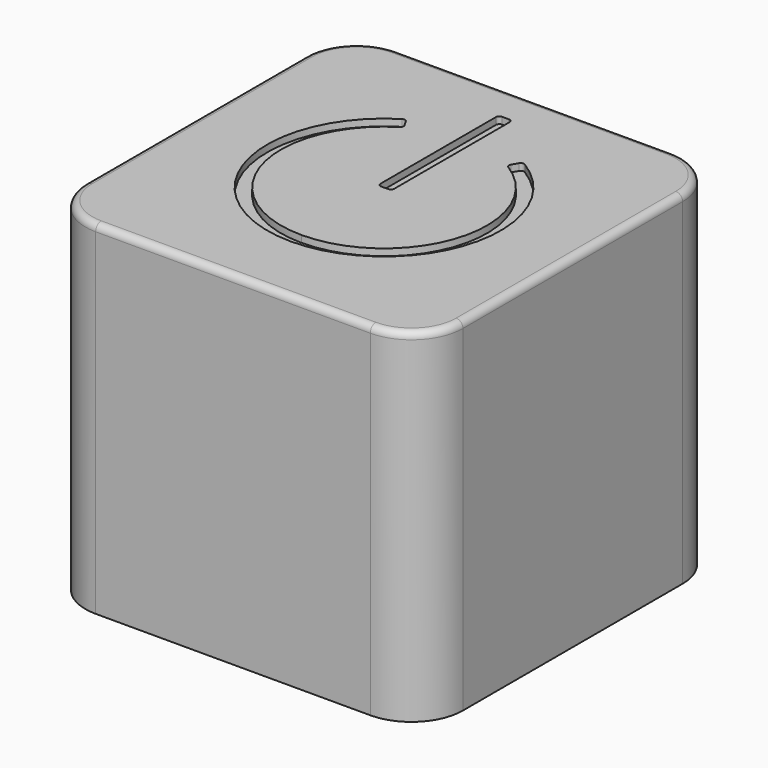
from build123d import *

# Parameters (mm, degrees)
F1_DEPTH = 5
F3_DEPTH = 0.1
F4_R     = 0.1


with BuildPart() as f1:
    # F0 (on Top) → F1 (new body)
    with BuildSketch(Plane.XY):
        with BuildLine():
            Line((20.678803, 58.487322), (16.678803, 58.487322))
            ThreePointArc((16.678803, 58.487322), (16.148473, 58.267652), (15.928803, 57.737322))
            Line((15.928803, 57.737322), (15.928803, 53.737322))
            ThreePointArc((15.928803, 53.737322), (16.148473, 53.206992), (16.678803, 52.987322))
            Line((16.678803, 52.987322), (20.678803, 52.987322))
            ThreePointArc((20.678803, 52.987322), (21.209133, 53.206992), (21.428803, 53.737322))
            Line((21.428803, 53.737322), (21.428803, 57.737322))
            ThreePointArc((21.428803, 57.737322), (21.209133, 58.267652), (20.678803, 58.487322))
        make_face()
    extrude(amount=F1_DEPTH)

    # F2 (on face) → F3 (cut)
    with BuildSketch(Plane.XY.offset(5)):
        with BuildLine():
            ThreePointArc((19.4534, 57.078963), (19.448202, 57.041803), (19.470317, 57.011491))
            ThreePointArc((19.470317, 57.011491), (20.121241, 55.325772), (18.678803, 54.237322))
            ThreePointArc((18.678803, 54.237322), (17.236365, 55.325772), (17.887289, 57.011491))
            ThreePointArc((17.887289, 57.011491), (17.909404, 57.041803), (17.904206, 57.078963))
            Line((17.904206, 57.078963), (17.854182, 57.165608))
            ThreePointArc((17.854182, 57.165608), (17.823088, 57.189095), (17.78458, 57.183132))
            ThreePointArc((17.78458, 57.183132), (17.043585, 55.272498), (18.678803, 54.037322))
            ThreePointArc((18.678803, 54.037322), (20.314021, 55.272498), (19.573026, 57.183132))
            ThreePointArc((19.573026, 57.183132), (19.534518, 57.189095), (19.503424, 57.165608))
            Line((19.503424, 57.165608), (19.4534, 57.078963))
        make_face()
        with BuildLine():
            ThreePointArc((18.588702, 55.787322), (18.603347, 55.751967), (18.638702, 55.737322))
            Line((18.638702, 55.737322), (18.738702, 55.737322))
            ThreePointArc((18.738702, 55.737322), (18.774057, 55.751967), (18.788702, 55.787322))
            Line((18.788702, 55.787322), (18.788702, 57.887322))
            ThreePointArc((18.788702, 57.887322), (18.774057, 57.922678), (18.738702, 57.937322))
            Line((18.738702, 57.937322), (18.638702, 57.937322))
            ThreePointArc((18.638702, 57.937322), (18.603347, 57.922678), (18.588702, 57.887322))
            Line((18.588702, 57.887322), (18.588702, 55.787322))
        make_face()
    extrude(amount=-F3_DEPTH, mode=Mode.SUBTRACT)

    # F4
    f4_edges = [f1.edges().sort_by_distance(p)[0] for p in [
        (18.678803, 58.487322, 5),
        (16.148473, 58.267652, 5),
        (15.928803, 55.737322, 5),
        (16.148473, 53.206992, 5),
        (21.209133, 53.206992, 5),
        (18.678803, 52.987322, 5),
        (21.428803, 55.737322, 5),
        (21.209133, 58.267652, 5),
    ]]
    fillet(f4_edges, radius=F4_R)


solid = f1.part
